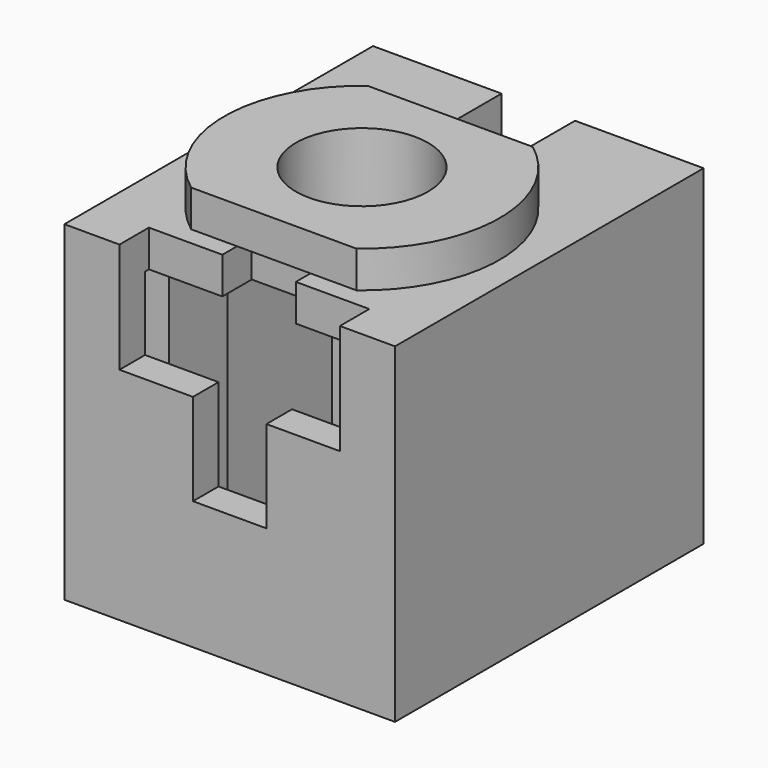
from build123d import *

# Parameters (mm, degrees)
SKETCH_W        = 9
SKETCH_H        = 10.5
PAD_DEPTH       = 9
POCKET_DEPTH    = 8
PAD001_DEPTH    = 1
SKETCH004_W     = 2
SKETCH004_H     = 6
POCKET002_DEPTH = 1.5
SKETCH007_R     = 1.8
POCKET011_DEPTH = 10.001
POCKET012_DEPTH = 1
SKETCH033_W     = 2
SKETCH033_H     = 1
POCKET013_DEPTH = 1


with BuildPart() as part:
    # Sketch → Pad (new body)
    with BuildSketch(Plane.XY):
        with Locations((0, 0.75)):
            Rectangle(SKETCH_W, SKETCH_H)
    extrude(amount=PAD_DEPTH)

    # Sketch001 (on Face5 of Pad) → Pocket (cut)
    with BuildSketch(Plane(origin=(0, 0, 0), x_dir=(1, 0, 0), z_dir=(0, 0, -1))):
        Polygon((-3.75, 3.63), (-3.75, 3.13), (-2.75, 3.13), (-2.75, 1.13), (-3.75, 1.13), (-3.75, -3.67), (-2.75, -3.67), (-2.75, -4.67), (-3.75, -4.67), (-3.75, -5.17), (3.75, -5.17), (3.75, -4.67), (2.75, -4.67), (2.75, -3.67), (3.75, -3.67), (3.75, 1.13), (2.75, 1.13), (2.75, 3.13), (3.75, 3.13), (3.75, 3.63), align=None)
    extrude(amount=-POCKET_DEPTH, mode=Mode.SUBTRACT)

    # Sketch002 (on Face5 of Pocket) → Pad001 (join)
    with BuildSketch(Plane.XY.offset(9)):
        with BuildLine():
            Line((-2.25, 3), (2.25, 3))
            ThreePointArc((2.25, -3), (3.75, 0), (2.25, 3))
            Line((2.25, -3), (-2.25, -3))
            ThreePointArc((-2.25, 3), (-3.75, 0), (-2.25, -3))
        make_face()
    extrude(amount=PAD001_DEPTH)

    # Sketch004 → Pocket002 (cut)
    with BuildSketch(Plane(origin=(0, 6, 0), x_dir=(-1, 0, 0), z_dir=(0, 1, 0))):
        with Locations((0, 6)):
            Rectangle(SKETCH004_W, SKETCH004_H)
    extrude(amount=-POCKET002_DEPTH, mode=Mode.SUBTRACT)

    # Sketch007 → Pocket011 (cut, through all)
    with BuildSketch(Plane(origin=(0, 0, 10), x_dir=(1, 0, 0), z_dir=(0, 0, -1))):
        Circle(SKETCH007_R)
    extrude(amount=POCKET011_DEPTH, mode=Mode.SUBTRACT)

    # Sketch032 (on Face9 of Pocket011) → Pocket012 (cut)
    with BuildSketch(Plane.XZ.offset(4.5)):
        Polygon((-3, 9), (-3, 6), (-1, 6), (-1, 3.5), (1, 3.5), (1, 6), (3, 6), (3, 9), align=None)
    extrude(amount=-POCKET012_DEPTH, mode=Mode.SUBTRACT)

    # Sketch033 (on Face31 of Pocket012) → Pocket013 (cut)
    with BuildSketch(Plane.XZ.offset(3.5)):
        with Locations((0, 8.5)):
            Rectangle(SKETCH033_W, SKETCH033_H)
    extrude(amount=-POCKET013_DEPTH, mode=Mode.SUBTRACT)


solid = part.part
